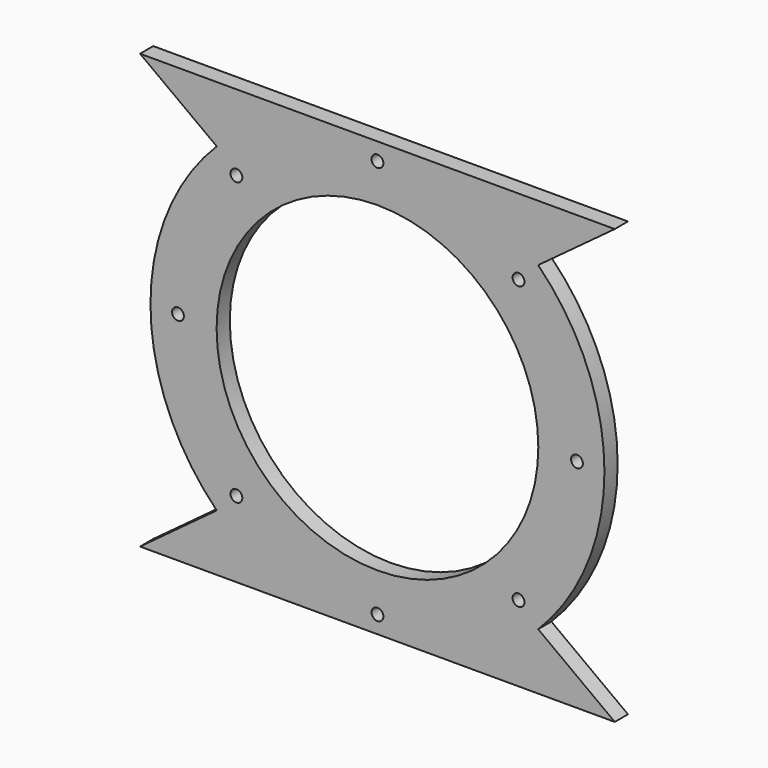
from build123d import *

# Parameters (mm, degrees)
F0_R     = 4.3053
F0_R_2   = 4.3
F0_R_3   = 117
F1_DEPTH = 12


with BuildPart() as f1:
    # F0 (on Front) → F1 (new body)
    with BuildSketch(Plane.XZ):
        with BuildLine():
            Line((-168.642255, 12.939946), (-224.428092, -28.32137))
            Line((-224.428092, -28.32137), (120.876908, -28.32137))
            Line((120.876908, -28.32137), (65.172268, 12.939946))
            ThreePointArc((65.172268, 12.939946), (113.365006, 129.519114), (65.172268, 246.098281))
            Line((65.172268, 246.098281), (120.876908, 287.27863))
            Line((120.876908, 287.27863), (-224.428092, 287.27863))
            Line((-224.428092, 287.27863), (-168.642255, 246.098281))
            ThreePointArc((-168.642255, 246.098281), (-216.834994, 129.519114), (-168.642255, 12.939946))
        make_face()
        with Locations((-154.335994, 26.932927)):
            Circle(F0_R, mode=Mode.SUBTRACT)
        with Locations((-51.734994, -15.580886)):
            Circle(F0_R_2, mode=Mode.SUBTRACT)
        with Locations((50.865884, 26.903179)):
            Circle(F0_R, mode=Mode.SUBTRACT)
        with Locations((-196.834994, 129.519114)):
            Circle(F0_R_2, mode=Mode.SUBTRACT)
        with Locations((-154.346183, 232.124737)):
            Circle(F0_R, mode=Mode.SUBTRACT)
        with Locations((-51.734994, 129.519114)):
            Circle(F0_R_3, mode=Mode.SUBTRACT)
        with Locations((93.365006, 129.519114)):
            Circle(F0_R_2, mode=Mode.SUBTRACT)
        with Locations((-51.734994, 274.619114)):
            Circle(F0_R_2, mode=Mode.SUBTRACT)
        with Locations((50.865884, 232.135048)):
            Circle(F0_R, mode=Mode.SUBTRACT)
    extrude(amount=F1_DEPTH)


solid = f1.part
